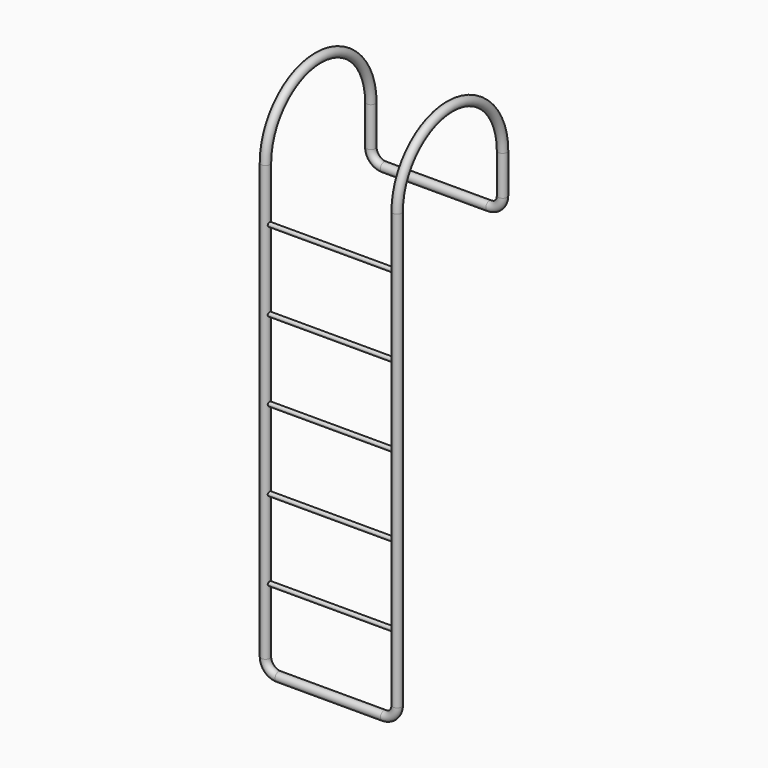
from build123d import *

# Parameters (mm, degrees)
F2_R           = 17
F2_R_2         = 13.8
F3_FACE_R      = 17
F3_FACE_R_2    = 13.8
F10_R          = 8
F11_DEPTH      = 235.0000001
F11_DEPTH_BACK = 235.0000001


with BuildPart() as f3:
    # F3: sweep along a path in F1
    with BuildLine(Plane.YZ.offset(250)) as f3_path:
        Line((0, 0), (0, 100))
        ThreePointArc((0, 100), (-250, 350), (-500, 100))
        Line((-500, 100), (-500, -1500))
    # F2 (on Top) → F3 (sweep)
    with BuildSketch(Plane.XY):
        with Locations((250, 0)):
            Circle(F2_R)
        with Locations((250, 0)):
            Circle(F2_R_2, mode=Mode.SUBTRACT)
    sweep(path=f3_path.line)


with BuildPart() as f4_1:
    # F4: instance of F3
    add(f3.part.mirror(Plane.YZ))


with BuildPart() as f3_1:
    add(f3.part)

    add(f4_1.part)  # F6 merges F4_1
    # F6: sweep along a path in F5
    with BuildLine(Plane.XZ) as f6_path:
        Line((250, 0), (250, -50))
        ThreePointArc((250, -50), (235.3553390593, -85.3553390593), (200, -100))
        Line((200, -100), (-200, -100))
        ThreePointArc((-200, -100), (-235.3553390593, -85.3553390593), (-250, -50))
        Line((-250, -50), (-250, 0))
    # F2 (on Top) → F6 (sweep)
    with BuildSketch(Plane.XY):
        with Locations((250, 0)):
            Circle(F2_R)
        with Locations((250, 0)):
            Circle(F2_R_2, mode=Mode.SUBTRACT)
    sweep(path=f6_path.line)

    # F9: sweep along a path in F8
    with BuildLine(Plane.XZ.offset(500)) as f9_path:
        Line((250, -1500), (250, -1550))
        ThreePointArc((250, -1550), (235.3553390593, -1585.3553390593), (200, -1600))
        Line((200, -1600), (-200, -1600))
        ThreePointArc((-200, -1600), (-235.3553390593, -1585.3553390593), (-250, -1550))
        Line((-250, -1550), (-250, -1500))
    # F3_face (on face) → F9 (sweep)
    with BuildSketch(Plane(origin=(250, -500, -1500), x_dir=(1, 0, 0), z_dir=(0, 0, -1))):
        Circle(F3_FACE_R)
        Circle(F3_FACE_R_2, mode=Mode.SUBTRACT)
    sweep(path=f9_path.line)

    # F10 (on Right) → F11 (join, two sides)
    with BuildSketch(Plane.YZ) as f11_sk:
        with Locations((-500, -1300)):
            Circle(F10_R)
        with Locations((-500, -1000)):
            Circle(F10_R)
        with Locations((-500, -700)):
            Circle(F10_R)
        with Locations((-500, -400)):
            Circle(F10_R)
        with Locations((-500, -100)):
            Circle(F10_R)
    extrude(amount=F11_DEPTH)
    extrude(f11_sk.sketch, amount=-F11_DEPTH_BACK)


solid = f3_1.part
